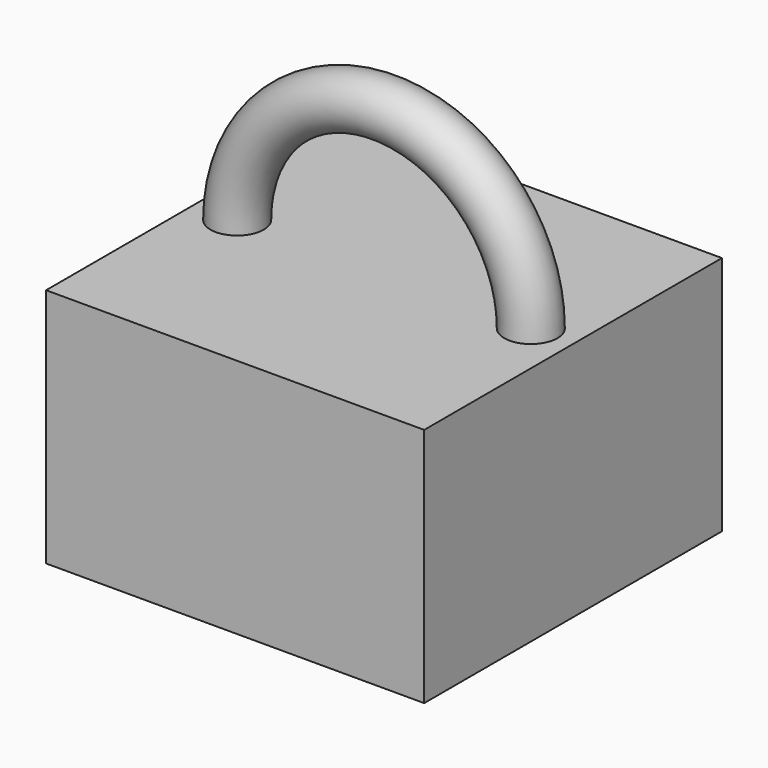
from build123d import *

# Parameters (mm, degrees)
F0_W     = 69.863096
F0_H     = 137.526572
F2_DEPTH = 88.9
F3_R     = 9.824635


with BuildPart() as f2:
    # F0 (on Top) → F2 (new body)
    with BuildSketch(Plane.XY):
        with Locations((-34.931548, 0)):
            Rectangle(F0_W, F0_H)
        with Locations((34.931548, 0)):
            Rectangle(F0_W, F0_H)
    extrude(amount=F2_DEPTH)

    # F3 (on face) → F4 (revolve)
    with BuildSketch(Plane.XY.offset(88.9)):
        with Locations((54.264009, 0)):
            Circle(F3_R)
    revolve(axis=Axis((0, 0, 88.9), (0, -1, 0)))


solid = f2.part
